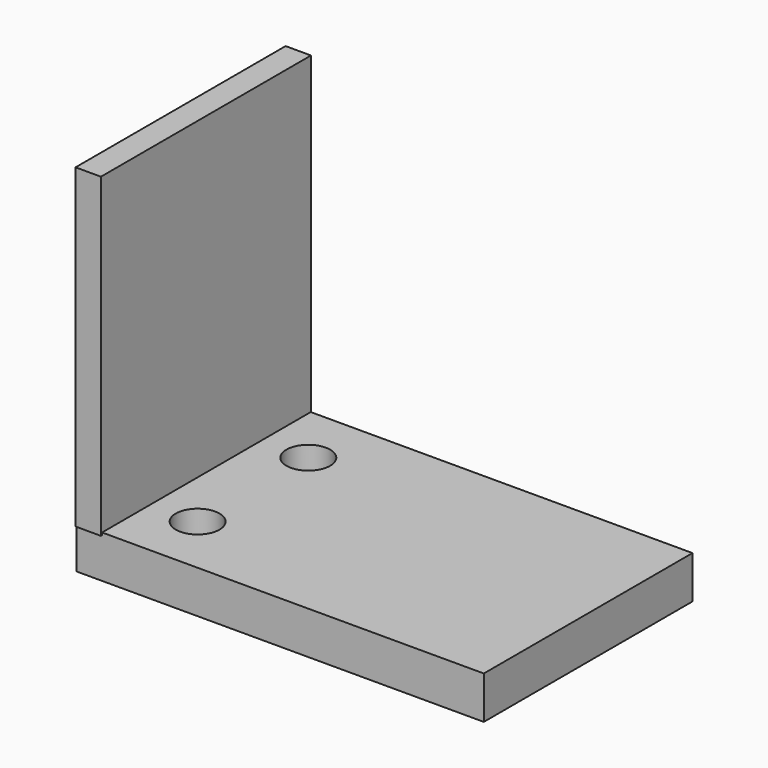
from build123d import *

# Parameters (mm, degrees)
F0_W     = 76.2
F0_H     = 91.7677478655
F1_DEPTH = 7.366
F2_W     = 118.1442663074
F2_H     = 12.3756490648
F3_DEPTH = 34.798
F4_DEPTH = 40.894
F5_R     = 6.35
F6_DEPTH = 25.4


with BuildPart() as f1:
    # F0 (on Right) → F1 (new body)
    with BuildSketch(Plane.YZ):
        with Locations((2.8780587018, 1.5829317272)):
            Rectangle(F0_W, F0_H)
    extrude(amount=F1_DEPTH)

    # F2 (on Front) → F3 (join)
    with BuildSketch(Plane.XZ):
        with Locations((59.0721331537, -49.7903954238)):
            Rectangle(F2_W, F2_H)
    extrude(amount=F3_DEPTH)

    # F2 (on Front) → F4 (join)
    with BuildSketch(Plane.XZ):
        with Locations((59.0721331537, -49.7903954238)):
            Rectangle(F2_W, F2_H)
    extrude(amount=-F4_DEPTH)

    # F5 (on face) → F6 (cut)
    with BuildSketch(Plane(origin=(0, 0, -55.9782199562), x_dir=(1, 0, 0), z_dir=(0, 0, -1))):
        with Locations((20.9336709231, -23.0455552376)):
            Circle(F5_R)
        with Locations((20.9336709231, 17.1015182538)):
            Circle(F5_R)
    extrude(amount=-F6_DEPTH, mode=Mode.SUBTRACT)


solid = f1.part
